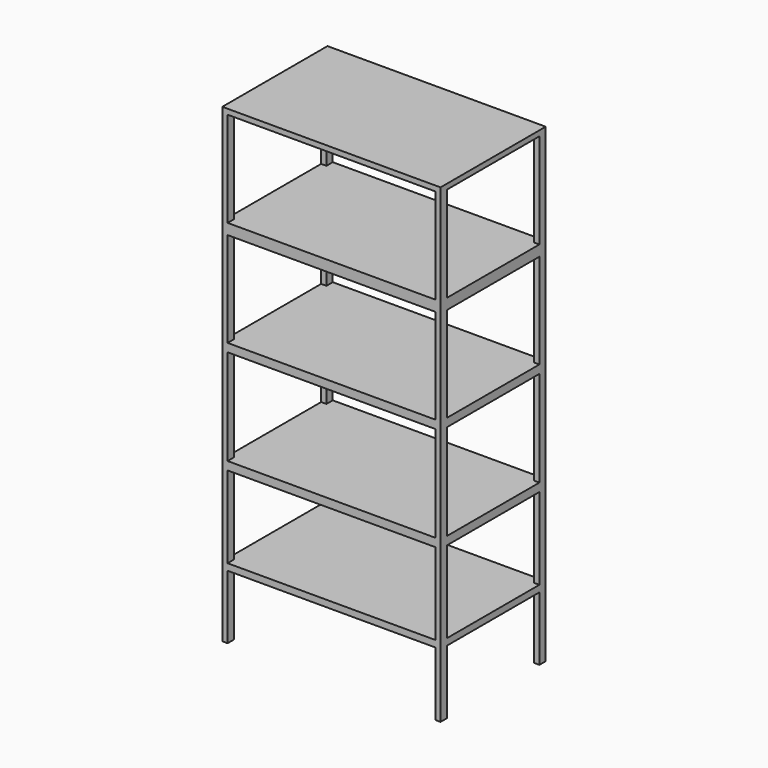
from build123d import *

# Parameters (mm, degrees)
F0_W     = 8.3
F0_H     = 5
F1_DEPTH = 17.9
F2_W     = 7.9
F2_H     = 3.622741
F2_H_2   = 3.610624
F2_H_3   = 3.642021
F2_H_4   = 3.108276
F2_H_5   = 2.429072
F3_DEPTH = 25
F4_W     = 4.4
F4_H     = 3.622741
F4_H_2   = 3.610624
F4_H_3   = 3.642021
F4_H_4   = 3.108276
F4_H_5   = 2.429072
F5_DEPTH = 25


with BuildPart() as f1:
    # F0 (on Top) → F1 (new body)
    with BuildSketch(Plane.XY):
        with Locations((4.15, -2.5)):
            Rectangle(F0_W, F0_H)
    extrude(amount=F1_DEPTH)

    # F2 (on face) → F3 (cut)
    with BuildSketch(Plane(origin=(0, 0, 0), x_dir=(-1, 0, 0), z_dir=(0, 1, 0))):
        with Locations((-4.15, 15.88863)):
            Rectangle(F2_W, F2_H)
        with Locations((-4.15, 11.86379)):
            Rectangle(F2_W, F2_H_2)
        with Locations((-4.15, 7.9235)):
            Rectangle(F2_W, F2_H_3)
        with Locations((-4.15, 4.234384)):
            Rectangle(F2_W, F2_H_4)
        with Locations((-4.15, 1.214536)):
            Rectangle(F2_W, F2_H_5)
    extrude(amount=-F3_DEPTH, mode=Mode.SUBTRACT)

    # F4 (on Right) → F5 (cut)
    with BuildSketch(Plane.YZ):
        with Locations((-2.5, 15.88863)):
            Rectangle(F4_W, F4_H)
        with Locations((-2.5, 11.86379)):
            Rectangle(F4_W, F4_H_2)
        with Locations((-2.5, 7.9235)):
            Rectangle(F4_W, F4_H_3)
        with Locations((-2.5, 4.234384)):
            Rectangle(F4_W, F4_H_4)
        with Locations((-2.5, 1.214536)):
            Rectangle(F4_W, F4_H_5)
    extrude(amount=F5_DEPTH, mode=Mode.SUBTRACT)


solid = f1.part
